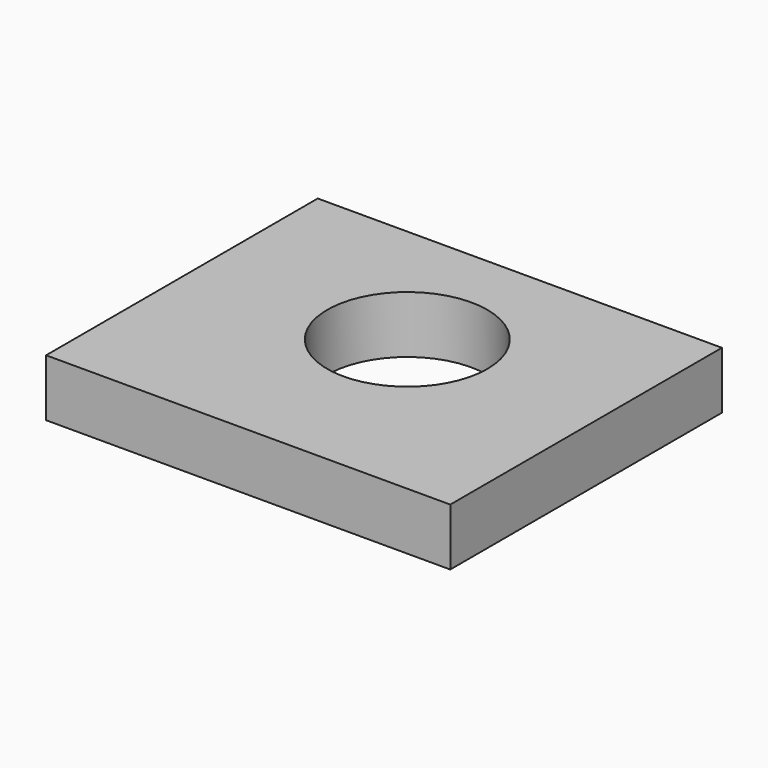
from build123d import *

# Parameters (mm, degrees)
SKETCH032_W     = 35.340293
SKETCH032_H     = 29.690987
PAD011_DEPTH    = 5
SKETCH033_R     = 3.176208
POCKET014_DEPTH = 3
SKETCH034_R     = 7
POCKET015_DEPTH = 5


with BuildPart() as part:
    # Sketch032 → Pad011 (new body)
    with BuildSketch(Plane.XY):
        with Locations((100.463696, -49.886112)):
            Rectangle(SKETCH032_W, SKETCH032_H)
    extrude(amount=PAD011_DEPTH)

    # Sketch033 (on Face5 of Pad011) → Pocket014 (cut)
    with BuildSketch(Plane(origin=(0, 0, 0), x_dir=(1, 0, 0), z_dir=(0, 0, -1))):
        with Locations((90.151108, 59.905067)):
            Circle(SKETCH033_R)
        with Locations((90.236954, 47.436592)):
            Circle(SKETCH033_R)
        with Locations((111.203728, 59.926529)):
            Circle(SKETCH033_R)
        with Locations((111.203728, 47.500977)):
            Circle(SKETCH033_R)
    extrude(amount=-POCKET014_DEPTH, mode=Mode.SUBTRACT)

    # Sketch034 (on Face4 of Pocket014) → Pocket015 (cut)
    with BuildSketch(Plane(origin=(0, 0, 0), x_dir=(1, 0, 0), z_dir=(0, 0, -1))):
        with Locations((100.58239, 47.488678)):
            Circle(SKETCH034_R)
    extrude(amount=-POCKET015_DEPTH, mode=Mode.SUBTRACT)


with BuildPart() as part_1:
    # Body004 placement: moved
    add(part.part.moved(Location((0, 0, 35))))


solid = part_1.part
